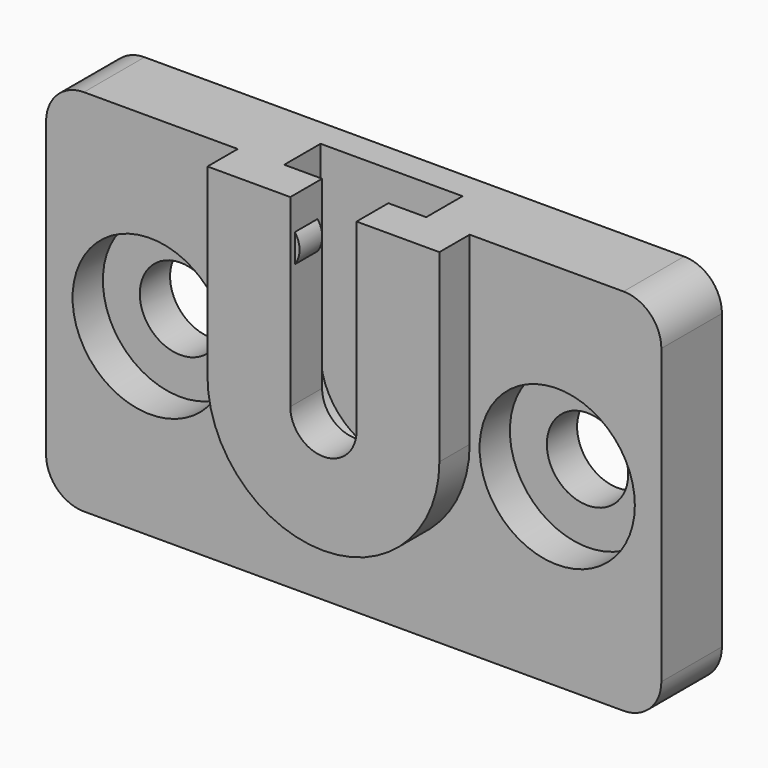
from build123d import *

# Parameters (mm, degrees)
F0_R     = 4.1
F1_DEPTH = 4
F2_DEPTH = 1.5
F3_DEPTH = 6
F0_R_2   = 2.15
F4_DEPTH = 2
F5_START = 3.9
F5_DEPTH = 2.1
F6_START = 4.2
F6_DEPTH = 1.5


with BuildPart() as f1:
    # F0 (on Front) → F1 (new body)
    with BuildSketch(Plane.XZ):
        with BuildLine():
            Line((14.25, 9.75), (6.125, 9.75))
            Line((6.125, 9.75), (6.125, 0))
            ThreePointArc((6.125, 0), (0, -6.125), (-6.125, 0))
            Line((-6.125, 0), (-6.125, 9.75))
            Line((-6.125, 9.75), (-14.25, 9.75))
            ThreePointArc((-14.25, 9.75), (-15.6642135624, 9.1642135624), (-16.25, 7.75))
            Line((-16.25, 7.75), (-16.25, -7.75))
            ThreePointArc((-16.25, -7.75), (-15.6642135624, -9.1642135624), (-14.25, -9.75))
            Line((-14.25, -9.75), (14.25, -9.75))
            ThreePointArc((14.25, -9.75), (15.6642135624, -9.1642135624), (16.25, -7.75))
            Line((16.25, -7.75), (16.25, 7.75))
            ThreePointArc((16.25, 7.75), (15.6642135624, 9.1642135624), (14.25, 9.75))
        make_face()
        with Locations((-10.75, 0)):
            Circle(F0_R, mode=Mode.SUBTRACT)
        with Locations((10.75, 0)):
            Circle(F0_R, mode=Mode.SUBTRACT)
        with BuildLine():
            Line((6.125, 9.75), (3.75, 9.75))
            Line((3.75, 9.75), (3.75, 0))
            ThreePointArc((3.75, 0), (0, -3.75), (-3.75, 0))
            Line((-3.75, 0), (-3.75, 9.75))
            Line((-3.75, 9.75), (-6.125, 9.75))
            Line((-6.125, 9.75), (-6.125, 0))
            ThreePointArc((-6.125, 0), (0, -6.125), (6.125, 0))
            Line((6.125, 0), (6.125, 9.75))
        make_face()
    extrude(amount=F1_DEPTH)

    # F0 (on Front) → F2 (join)
    with BuildSketch(Plane.XZ):
        with BuildLine():
            ThreePointArc((1.75, 8), (1.5, 7.25), (1.75, 6.5))
            Line((1.75, 6.5), (1.75, 8))
        make_face()
        with BuildLine():
            Line((1.75, 6.5), (1.75, 0))
            ThreePointArc((1.75, 0), (0, -1.75), (-1.75, 0))
            Line((-1.75, 0), (-1.75, 6.5))
            Line((-1.75, 6.5), (-1.75, 8))
            Line((-1.75, 8), (-1.75, 9.75))
            Line((-1.75, 9.75), (-3.75, 9.75))
            Line((-3.75, 9.75), (-3.75, 0))
            ThreePointArc((-3.75, 0), (0, -3.75), (3.75, 0))
            Line((3.75, 0), (3.75, 9.75))
            Line((3.75, 9.75), (1.75, 9.75))
            Line((1.75, 9.75), (1.75, 8))
            Line((1.75, 8), (1.75, 6.5))
        make_face()
        with BuildLine():
            Line((-1.75, 8), (-1.75, 6.5))
            ThreePointArc((-1.75, 6.5), (-1.5, 7.25), (-1.75, 8))
        make_face()
        with BuildLine():
            ThreePointArc((-1.75, 0), (0, -1.75), (1.75, 0))
            Line((1.75, 0), (1.75, 6.5))
            ThreePointArc((1.75, 6.5), (1.5, 7.25), (1.75, 8))
            Line((1.75, 8), (1.75, 9.75))
            Line((1.75, 9.75), (-1.75, 9.75))
            Line((-1.75, 9.75), (-1.75, 8))
            ThreePointArc((-1.75, 8), (-1.5, 7.25), (-1.75, 6.5))
            Line((-1.75, 6.5), (-1.75, 0))
        make_face()
    extrude(amount=F2_DEPTH)

    # F0 (on Front) → F3 (join)
    with BuildSketch(Plane.XZ):
        with BuildLine():
            Line((6.125, 9.75), (3.75, 9.75))
            Line((3.75, 9.75), (3.75, 0))
            ThreePointArc((3.75, 0), (0, -3.75), (-3.75, 0))
            Line((-3.75, 0), (-3.75, 9.75))
            Line((-3.75, 9.75), (-6.125, 9.75))
            Line((-6.125, 9.75), (-6.125, 0))
            ThreePointArc((-6.125, 0), (0, -6.125), (6.125, 0))
            Line((6.125, 0), (6.125, 9.75))
        make_face()
    extrude(amount=F3_DEPTH)

    # F0 (on Front) → F4 (join)
    with BuildSketch(Plane.XZ):
        with Locations((-10.75, 0)):
            Circle(F0_R)
        with Locations((-10.75, 0)):
            Circle(F0_R_2, mode=Mode.SUBTRACT)
        with Locations((10.75, 0)):
            Circle(F0_R)
        with Locations((10.75, 0)):
            Circle(F0_R_2, mode=Mode.SUBTRACT)
    extrude(amount=F4_DEPTH)

    # F0 (on Front) → F5 (join)
    with BuildSketch(Plane.XZ.offset(F5_START)):
        with BuildLine():
            Line((1.75, 6.5), (1.75, 0))
            ThreePointArc((1.75, 0), (0, -1.75), (-1.75, 0))
            Line((-1.75, 0), (-1.75, 6.5))
            Line((-1.75, 6.5), (-1.75, 8))
            Line((-1.75, 8), (-1.75, 9.75))
            Line((-1.75, 9.75), (-3.75, 9.75))
            Line((-3.75, 9.75), (-3.75, 0))
            ThreePointArc((-3.75, 0), (0, -3.75), (3.75, 0))
            Line((3.75, 0), (3.75, 9.75))
            Line((3.75, 9.75), (1.75, 9.75))
            Line((1.75, 9.75), (1.75, 8))
            Line((1.75, 8), (1.75, 6.5))
        make_face()
    extrude(amount=F5_DEPTH)

    # F0 (on Front) → F6 (join)
    with BuildSketch(Plane.XZ.offset(F6_START)):
        with BuildLine():
            Line((-1.75, 8), (-1.75, 6.5))
            ThreePointArc((-1.75, 6.5), (-1.5, 7.25), (-1.75, 8))
        make_face()
        with BuildLine():
            ThreePointArc((1.75, 8), (1.5, 7.25), (1.75, 6.5))
            Line((1.75, 6.5), (1.75, 8))
        make_face()
    extrude(amount=F6_DEPTH)


solid = f1.part
